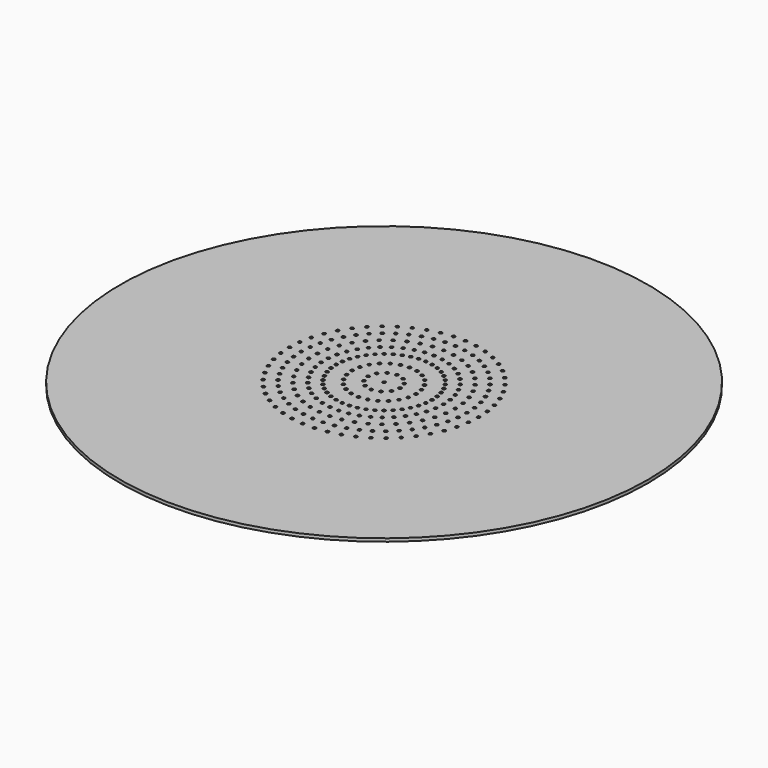
from build123d import *

# Parameters (mm, degrees)
F0_R     = 43
F1_DEPTH = 0.5
F2_R     = 0.25
F3_R     = 0.25
F4_R     = 0.25
F5_R     = 0.25
F6_DEPTH = 25


with BuildPart() as f1:
    # F0 (on Top) → F1 (new body)
    with BuildSketch(Plane.XY):
        Circle(F0_R)
    extrude(amount=-F1_DEPTH)

    # F2 (on face) + F3 (on face) + F4 (on face) + F5 (on face) → F6 (cut)
    with BuildSketch(Plane.XY):
        Circle(F2_R)
    with BuildSketch(Plane.XY):
        Circle(F3_R)
        with Locations((2.6, 0)):
            Circle(F3_R)
        with Locations((5.2, 0)):
            Circle(F3_R)
        with Locations((7.8, 0)):
            Circle(F3_R)
        with Locations((2.251666, 1.3)):
            Circle(F3_R)
        with Locations((1.3, 2.251666)):
            Circle(F3_R)
        with Locations((0, 2.6)):
            Circle(F3_R)
        with Locations((-1.3, 2.251666)):
            Circle(F3_R)
        with Locations((-2.251666, 1.3)):
            Circle(F3_R)
        with Locations((-2.6, 0)):
            Circle(F3_R)
        with Locations((-2.251666, -1.3)):
            Circle(F3_R)
        with Locations((-1.3, -2.251666)):
            Circle(F3_R)
        with Locations((0, -2.6)):
            Circle(F3_R)
        with Locations((1.3, -2.251666)):
            Circle(F3_R)
        with Locations((2.251666, -1.3)):
            Circle(F3_R)
        with Locations((5.022814, 1.345859)):
            Circle(F3_R)
        with Locations((4.503332, 2.6)):
            Circle(F3_R)
        with Locations((3.676955, 3.676955)):
            Circle(F3_R)
        with Locations((2.6, 4.503332)):
            Circle(F3_R)
        with Locations((1.345859, 5.022814)):
            Circle(F3_R)
        with Locations((0, 5.2)):
            Circle(F3_R)
        with Locations((-1.345859, 5.022814)):
            Circle(F3_R)
        with Locations((-2.6, 4.503332)):
            Circle(F3_R)
        with Locations((-3.676955, 3.676955)):
            Circle(F3_R)
        with Locations((-4.503332, 2.6)):
            Circle(F3_R)
        with Locations((-5.022814, 1.345859)):
            Circle(F3_R)
        with Locations((-5.2, 0)):
            Circle(F3_R)
        with Locations((-5.022814, -1.345859)):
            Circle(F3_R)
        with Locations((-4.503332, -2.6)):
            Circle(F3_R)
        with Locations((-3.676955, -3.676955)):
            Circle(F3_R)
        with Locations((-2.6, -4.503332)):
            Circle(F3_R)
        with Locations((-1.345859, -5.022814)):
            Circle(F3_R)
        with Locations((0, -5.2)):
            Circle(F3_R)
        with Locations((1.345859, -5.022814)):
            Circle(F3_R)
        with Locations((2.6, -4.503332)):
            Circle(F3_R)
        with Locations((3.676955, -3.676955)):
            Circle(F3_R)
        with Locations((4.503332, -2.6)):
            Circle(F3_R)
        with Locations((5.022814, -1.345859)):
            Circle(F3_R)
        with Locations((7.71288, 1.16253)):
            Circle(F3_R)
        with Locations((7.453468, 2.29909)):
            Circle(F3_R)
        with Locations((7.027557, 3.384293)):
            Circle(F3_R)
        with Locations((6.444662, 4.393896)):
            Circle(F3_R)
        with Locations((5.717805, 5.305347)):
            Circle(F3_R)
        with Locations((4.86322, 6.098286)):
            Circle(F3_R)
        with Locations((3.9, 6.754998)):
            Circle(F3_R)
        with Locations((2.84966, 7.260815)):
            Circle(F3_R)
        with Locations((1.735663, 7.604438)):
            Circle(F3_R)
        with Locations((0.582895, 7.77819)):
            Circle(F3_R)
        with Locations((-0.582895, 7.77819)):
            Circle(F3_R)
        with Locations((-1.735663, 7.604438)):
            Circle(F3_R)
        with Locations((-2.84966, 7.260815)):
            Circle(F3_R)
        with Locations((-3.9, 6.754998)):
            Circle(F3_R)
        with Locations((-4.86322, 6.098286)):
            Circle(F3_R)
        with Locations((-5.717805, 5.305347)):
            Circle(F3_R)
        with Locations((-6.444662, 4.393896)):
            Circle(F3_R)
        with Locations((-7.027557, 3.384293)):
            Circle(F3_R)
        with Locations((-7.453468, 2.29909)):
            Circle(F3_R)
        with Locations((-7.71288, 1.16253)):
            Circle(F3_R)
        with Locations((-7.8, 0)):
            Circle(F3_R)
        with Locations((-7.71288, -1.16253)):
            Circle(F3_R)
        with Locations((-7.453468, -2.29909)):
            Circle(F3_R)
        with Locations((-7.027557, -3.384293)):
            Circle(F3_R)
        with Locations((-6.444662, -4.393896)):
            Circle(F3_R)
        with Locations((-5.717805, -5.305347)):
            Circle(F3_R)
        with Locations((-4.86322, -6.098286)):
            Circle(F3_R)
        with Locations((-3.9, -6.754998)):
            Circle(F3_R)
        with Locations((-2.84966, -7.260815)):
            Circle(F3_R)
        with Locations((-1.735663, -7.604438)):
            Circle(F3_R)
        with Locations((-0.582895, -7.77819)):
            Circle(F3_R)
        with Locations((0.582895, -7.77819)):
            Circle(F3_R)
        with Locations((1.735663, -7.604438)):
            Circle(F3_R)
        with Locations((2.84966, -7.260815)):
            Circle(F3_R)
        with Locations((3.9, -6.754998)):
            Circle(F3_R)
        with Locations((4.86322, -6.098286)):
            Circle(F3_R)
        with Locations((5.717805, -5.305347)):
            Circle(F3_R)
        with Locations((6.444662, -4.393896)):
            Circle(F3_R)
        with Locations((7.027557, -3.384293)):
            Circle(F3_R)
        with Locations((7.453468, -2.29909)):
            Circle(F3_R)
        with Locations((7.71288, -1.16253)):
            Circle(F3_R)
    with BuildSketch(Plane.XY):
        with Locations((7.8, 0)):
            Circle(F4_R)
        with Locations((9.7, 0)):
            Circle(F4_R)
        with Locations((11.6, 0)):
            Circle(F4_R)
        with Locations((9.58632, 1.480698)):
            Circle(F4_R)
        with Locations((11.464053, 1.770732)):
            Circle(F4_R)
        with Locations((9.247945, 2.92669)):
            Circle(F4_R)
        with Locations((11.059398, 3.499959)):
            Circle(F4_R)
        with Locations((8.692806, 4.304082)):
            Circle(F4_R)
        with Locations((10.39552, 5.14715)):
            Circle(F4_R)
        with Locations((7.933915, 5.580591)):
            Circle(F4_R)
        with Locations((9.487981, 6.673696)):
            Circle(F4_R)
        with Locations((6.989059, 6.726295)):
            Circle(F4_R)
        with Locations((8.35805, 8.043817)):
            Circle(F4_R)
        with Locations((5.880386, 7.714341)):
            Circle(F4_R)
        with Locations((7.032215, 9.225397)):
            Circle(F4_R)
        with Locations((4.633882, 8.521569)):
            Circle(F4_R)
        with Locations((5.54155, 10.190742)):
            Circle(F4_R)
        with Locations((3.278764, 9.129058)):
            Circle(F4_R)
        with Locations((3.920996, 10.917225)):
            Circle(F4_R)
        with Locations((1.846794, 9.522571)):
            Circle(F4_R)
        with Locations((2.208537, 11.387817)):
            Circle(F4_R)
        with Locations((0.371537, 9.692882)):
            Circle(F4_R)
        with Locations((0.444312, 11.591488)):
            Circle(F4_R)
        with Locations((-1.112429, 9.636)):
            Circle(F4_R)
        with Locations((-1.330328, 11.523464)):
            Circle(F4_R)
        with Locations((-2.570321, 9.353259)):
            Circle(F4_R)
        with Locations((-3.073785, 11.185341)):
            Circle(F4_R)
        with Locations((-3.967966, 8.851285)):
            Circle(F4_R)
        with Locations((-4.745196, 10.585042)):
            Circle(F4_R)
        with Locations((-5.272605, 8.141845)):
            Circle(F4_R)
        with Locations((-6.305384, 9.736639)):
            Circle(F4_R)
        with Locations((-6.453659, 7.241566)):
            Circle(F4_R)
        with Locations((-7.717778, 8.660017)):
            Circle(F4_R)
        with Locations((-7.483445, 6.171552)):
            Circle(F4_R)
        with Locations((-8.949274, 7.380412)):
            Circle(F4_R)
        with Locations((-8.337825, 4.956881)):
            Circle(F4_R)
        with Locations((-9.971007, 5.927817)):
            Circle(F4_R)
        with Locations((-8.996774, 3.626026)):
            Circle(F4_R)
        with Locations((-10.759028, 4.336278)):
            Circle(F4_R)
        with Locations((-9.444846, 2.210179)):
            Circle(F4_R)
        with Locations((-11.294867, 2.643101)):
            Circle(F4_R)
        with Locations((-9.671538, 0.742528)):
            Circle(F4_R)
        with Locations((-11.565963, 0.887971)):
            Circle(F4_R)
        with Locations((-9.671538, -0.742528)):
            Circle(F4_R)
        with Locations((-11.565963, -0.887971)):
            Circle(F4_R)
        with Locations((-9.444846, -2.210179)):
            Circle(F4_R)
        with Locations((-11.294867, -2.643101)):
            Circle(F4_R)
        with Locations((-8.996774, -3.626026)):
            Circle(F4_R)
        with Locations((-10.759028, -4.336278)):
            Circle(F4_R)
        with Locations((-8.337825, -4.956881)):
            Circle(F4_R)
        with Locations((-9.971007, -5.927817)):
            Circle(F4_R)
        with Locations((-7.483445, -6.171552)):
            Circle(F4_R)
        with Locations((-8.949274, -7.380412)):
            Circle(F4_R)
        with Locations((-6.453659, -7.241566)):
            Circle(F4_R)
        with Locations((-7.717778, -8.660017)):
            Circle(F4_R)
        with Locations((-5.272605, -8.141845)):
            Circle(F4_R)
        with Locations((-6.305384, -9.736639)):
            Circle(F4_R)
        with Locations((-3.967966, -8.851285)):
            Circle(F4_R)
        with Locations((-4.745196, -10.585042)):
            Circle(F4_R)
        with Locations((-2.570321, -9.353259)):
            Circle(F4_R)
        with Locations((-3.073785, -11.185341)):
            Circle(F4_R)
        with Locations((-1.112429, -9.636)):
            Circle(F4_R)
        with Locations((-1.330328, -11.523464)):
            Circle(F4_R)
        with Locations((0.371537, -9.692882)):
            Circle(F4_R)
        with Locations((0.444312, -11.591488)):
            Circle(F4_R)
        with Locations((1.846794, -9.522571)):
            Circle(F4_R)
        with Locations((2.208537, -11.387817)):
            Circle(F4_R)
        with Locations((3.278764, -9.129058)):
            Circle(F4_R)
        with Locations((3.920996, -10.917225)):
            Circle(F4_R)
        with Locations((4.633882, -8.521569)):
            Circle(F4_R)
        with Locations((5.54155, -10.190742)):
            Circle(F4_R)
        with Locations((5.880386, -7.714341)):
            Circle(F4_R)
        with Locations((7.032215, -9.225397)):
            Circle(F4_R)
        with Locations((6.989059, -6.726295)):
            Circle(F4_R)
        with Locations((8.35805, -8.043817)):
            Circle(F4_R)
        with Locations((7.933915, -5.580591)):
            Circle(F4_R)
        with Locations((9.487981, -6.673696)):
            Circle(F4_R)
        with Locations((8.692806, -4.304082)):
            Circle(F4_R)
        with Locations((10.39552, -5.14715)):
            Circle(F4_R)
        with Locations((9.247945, -2.92669)):
            Circle(F4_R)
        with Locations((11.059398, -3.499959)):
            Circle(F4_R)
        with Locations((9.58632, -1.480698)):
            Circle(F4_R)
        with Locations((11.464053, -1.770732)):
            Circle(F4_R)
    with BuildSketch(Plane.XY):
        with Locations((11.6, 0)):
            Circle(F5_R)
        with Locations((13.5, 0)):
            Circle(F5_R)
        with Locations((15.4, 0)):
            Circle(F5_R)
        with Locations((13.393548, 1.691999)):
            Circle(F5_R)
        with Locations((15.278566, 1.930132)):
            Circle(F5_R)
        with Locations((13.075873, 3.357313)):
            Circle(F5_R)
        with Locations((14.916181, 3.829824)):
            Circle(F5_R)
        with Locations((12.551983, 4.969681)):
            Circle(F5_R)
        with Locations((14.318558, 5.669118)):
            Circle(F5_R)
        with Locations((11.83014, 6.503675)):
            Circle(F5_R)
        with Locations((13.495123, 7.419007)):
            Circle(F5_R)
        with Locations((10.921729, 7.935101)):
            Circle(F5_R)
        with Locations((12.458862, 9.051893)):
            Circle(F5_R)
        with Locations((9.841076, 9.241386)):
            Circle(F5_R)
        with Locations((11.226117, 10.542025)):
            Circle(F5_R)
        with Locations((8.605224, 10.401929)):
            Circle(F5_R)
        with Locations((9.816329, 11.865904)):
            Circle(F5_R)
        with Locations((7.233662, 11.398427)):
            Circle(F5_R)
        with Locations((8.251733, 13.00265)):
            Circle(F5_R)
        with Locations((5.74802, 12.215165)):
            Circle(F5_R)
        with Locations((6.557001, 13.934337)):
            Circle(F5_R)
        with Locations((4.171729, 12.839263)):
            Circle(F5_R)
        with Locations((4.758862, 14.64627)):
            Circle(F5_R)
        with Locations((2.529648, 13.260878)):
            Circle(F5_R)
        with Locations((2.885672, 15.127224)):
            Circle(F5_R)
        with Locations((0.847672, 13.473361)):
            Circle(F5_R)
        with Locations((0.966974, 15.369612)):
            Circle(F5_R)
        with Locations((-0.847672, 13.473361)):
            Circle(F5_R)
        with Locations((-0.966974, 15.369612)):
            Circle(F5_R)
        with Locations((-2.529648, 13.260878)):
            Circle(F5_R)
        with Locations((-2.885672, 15.127224)):
            Circle(F5_R)
        with Locations((-4.171729, 12.839263)):
            Circle(F5_R)
        with Locations((-4.758862, 14.64627)):
            Circle(F5_R)
        with Locations((-5.74802, 12.215165)):
            Circle(F5_R)
        with Locations((-6.557001, 13.934337)):
            Circle(F5_R)
        with Locations((-7.233662, 11.398427)):
            Circle(F5_R)
        with Locations((-8.251733, 13.00265)):
            Circle(F5_R)
        with Locations((-8.605224, 10.401929)):
            Circle(F5_R)
        with Locations((-9.816329, 11.865904)):
            Circle(F5_R)
        with Locations((-9.841076, 9.241386)):
            Circle(F5_R)
        with Locations((-11.226117, 10.542025)):
            Circle(F5_R)
        with Locations((-10.921729, 7.935101)):
            Circle(F5_R)
        with Locations((-12.458862, 9.051893)):
            Circle(F5_R)
        with Locations((-11.83014, 6.503675)):
            Circle(F5_R)
        with Locations((-13.495123, 7.419007)):
            Circle(F5_R)
        with Locations((-12.551983, 4.969681)):
            Circle(F5_R)
        with Locations((-14.318558, 5.669118)):
            Circle(F5_R)
        with Locations((-13.075873, 3.357313)):
            Circle(F5_R)
        with Locations((-14.916181, 3.829824)):
            Circle(F5_R)
        with Locations((-13.393548, 1.691999)):
            Circle(F5_R)
        with Locations((-15.278566, 1.930132)):
            Circle(F5_R)
        with Locations((-13.5, 0)):
            Circle(F5_R)
        with Locations((-15.4, 0)):
            Circle(F5_R)
        with Locations((-13.393548, -1.691999)):
            Circle(F5_R)
        with Locations((-15.278566, -1.930132)):
            Circle(F5_R)
        with Locations((-13.075873, -3.357313)):
            Circle(F5_R)
        with Locations((-14.916181, -3.829824)):
            Circle(F5_R)
        with Locations((-12.551983, -4.969681)):
            Circle(F5_R)
        with Locations((-14.318558, -5.669118)):
            Circle(F5_R)
        with Locations((-11.83014, -6.503675)):
            Circle(F5_R)
        with Locations((-13.495123, -7.419007)):
            Circle(F5_R)
        with Locations((-10.921729, -7.935101)):
            Circle(F5_R)
        with Locations((-12.458862, -9.051893)):
            Circle(F5_R)
        with Locations((-9.841076, -9.241386)):
            Circle(F5_R)
        with Locations((-11.226117, -10.542025)):
            Circle(F5_R)
        with Locations((-8.605224, -10.401929)):
            Circle(F5_R)
        with Locations((-9.816329, -11.865904)):
            Circle(F5_R)
        with Locations((-7.233662, -11.398427)):
            Circle(F5_R)
        with Locations((-8.251733, -13.00265)):
            Circle(F5_R)
        with Locations((-5.74802, -12.215165)):
            Circle(F5_R)
        with Locations((-6.557001, -13.934337)):
            Circle(F5_R)
        with Locations((-4.171729, -12.839263)):
            Circle(F5_R)
        with Locations((-4.758862, -14.64627)):
            Circle(F5_R)
        with Locations((-2.529648, -13.260878)):
            Circle(F5_R)
        with Locations((-2.885672, -15.127224)):
            Circle(F5_R)
        with Locations((-0.847672, -13.473361)):
            Circle(F5_R)
        with Locations((-0.966974, -15.369612)):
            Circle(F5_R)
        with Locations((0.847672, -13.473361)):
            Circle(F5_R)
        with Locations((0.966974, -15.369612)):
            Circle(F5_R)
        with Locations((2.529648, -13.260878)):
            Circle(F5_R)
        with Locations((2.885672, -15.127224)):
            Circle(F5_R)
        with Locations((4.171729, -12.839263)):
            Circle(F5_R)
        with Locations((4.758862, -14.64627)):
            Circle(F5_R)
        with Locations((5.74802, -12.215165)):
            Circle(F5_R)
        with Locations((6.557001, -13.934337)):
            Circle(F5_R)
        with Locations((7.233662, -11.398427)):
            Circle(F5_R)
        with Locations((8.251733, -13.00265)):
            Circle(F5_R)
        with Locations((8.605224, -10.401929)):
            Circle(F5_R)
        with Locations((9.816329, -11.865904)):
            Circle(F5_R)
        with Locations((9.841076, -9.241386)):
            Circle(F5_R)
        with Locations((11.226117, -10.542025)):
            Circle(F5_R)
        with Locations((10.921729, -7.935101)):
            Circle(F5_R)
        with Locations((12.458862, -9.051893)):
            Circle(F5_R)
        with Locations((11.83014, -6.503675)):
            Circle(F5_R)
        with Locations((13.495123, -7.419007)):
            Circle(F5_R)
        with Locations((12.551983, -4.969681)):
            Circle(F5_R)
        with Locations((14.318558, -5.669118)):
            Circle(F5_R)
        with Locations((13.075873, -3.357313)):
            Circle(F5_R)
        with Locations((14.916181, -3.829824)):
            Circle(F5_R)
        with Locations((13.393548, -1.691999)):
            Circle(F5_R)
        with Locations((15.278566, -1.930132)):
            Circle(F5_R)
    extrude(amount=-F6_DEPTH, mode=Mode.SUBTRACT)


solid = f1.part
